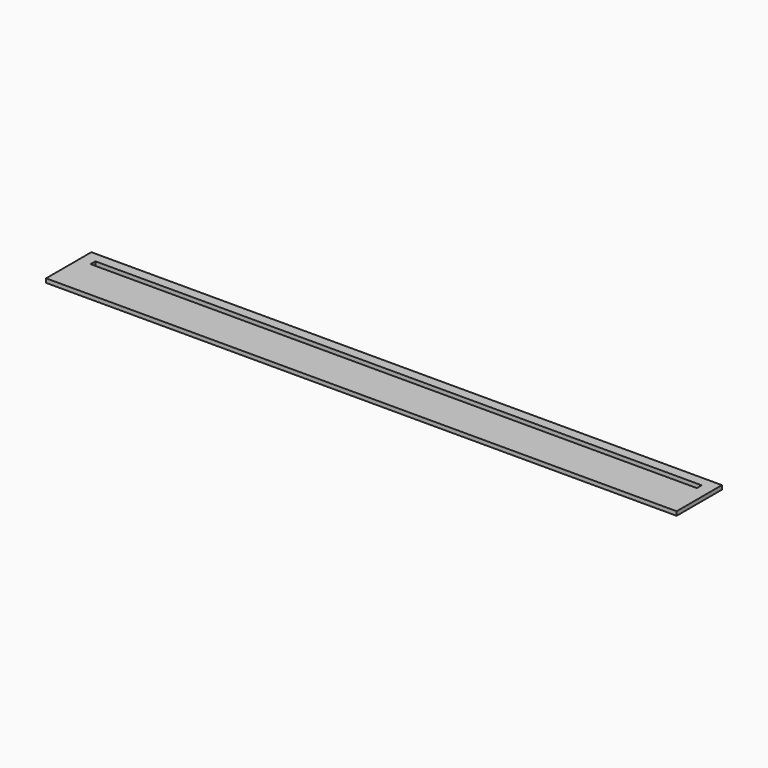
from build123d import *

# Parameters (mm, degrees)
BOX001_W     = 150
BOX001_H     = 1.5
BOX001_DEPTH = 10
BOX_W        = 156
BOX_H        = 14
BOX_DEPTH    = 1


with BuildPart() as cube001:
    # Box001 → Box001 (new body)
    with BuildSketch(Plane(origin=(3, 10, 0), x_dir=(1, 0, 0), z_dir=(0, 0, 1))):
        with Locations((75, 0.75)):
            Rectangle(BOX001_W, BOX001_H)
    extrude(amount=BOX001_DEPTH)


with BuildPart() as cut:
    # Box → Box (new body)
    with BuildSketch(Plane.XY):
        with Locations((78, 7)):
            Rectangle(BOX_W, BOX_H)
    extrude(amount=BOX_DEPTH)

    # Cut: cut Cube001
    add(cube001.part, mode=Mode.SUBTRACT)


solid = cut.part
